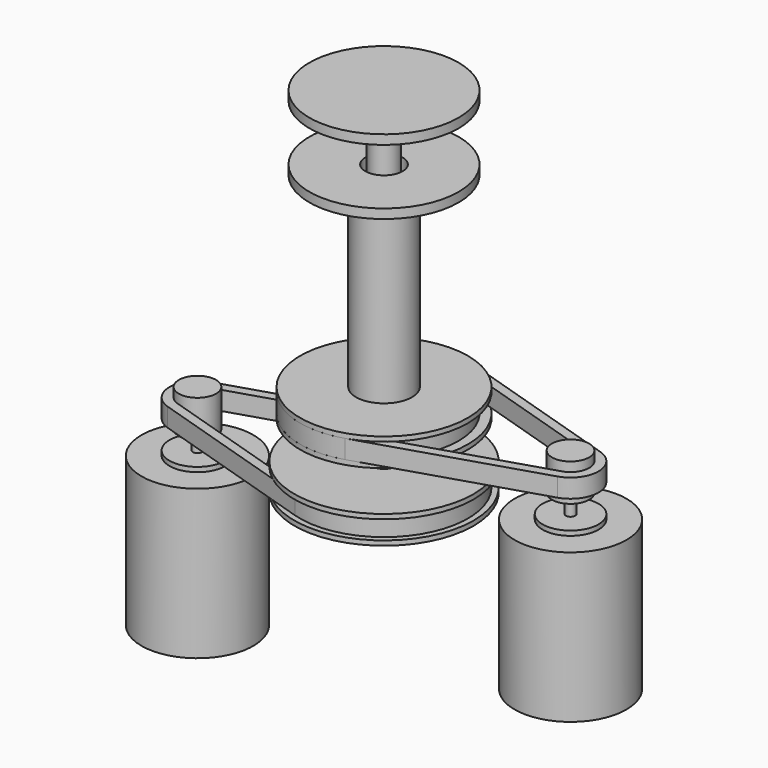
from build123d import *

# Parameters (mm, degrees)
F5_DEPTH = 6.35
F7_DEPTH = 6.35


with BuildPart() as f1:
    # F0 (on Front) → F1 (revolve)
    with BuildSketch(Plane.XZ):
        Polygon((25.4, 76.2), (6.35, 76.2), (6.35, 0), (28.575, 0), (28.575, 1.5875), (25.4, 1.5875), (25.4, 7.9375), (28.575, 7.9375), (28.575, 9.525), (9.525, 9.525), (9.525, 73.025), (25.4, 73.025), align=None)
    revolve(axis=Axis((0, 0, 38.1), (0, 0, 1)))


with BuildPart() as f3:
    # F2 (on Front) → F3 (revolve)
    with BuildSketch(Plane.XZ):
        Polygon((0, 98.425), (0, -22.225), (30.492194, -22.225), (30.492194, -20.6375), (25.4, -20.6375), (25.4, -14.2875), (30.492194, -14.2875), (30.492194, -12.7), (4.58843, -12.7), (4.58843, 95.25), (25.4, 95.25), (25.4, 98.425), align=None)
    revolve(axis=Axis((0, 0, 38.1), (0, 0, -1)))


with BuildPart() as f5:
    # F4 (on face) → F5 (new body)
    with BuildSketch(Plane.XY.offset(-20.6375)):
        with BuildLine():
            Line((-8.5725, 27.258813), (-66.3575, 9.086271))
            ThreePointArc((-66.3575, 9.086271), (-73.025, 0), (-66.3575, -9.086271))
            Line((-66.3575, -9.086271), (-8.5725, -27.258813))
            ThreePointArc((-8.5725, -27.258813), (28.575, 0), (-8.5725, 27.258813))
        make_face()
        with BuildLine():
            ThreePointArc((-7.62, 24.230056), (25.4, 0), (-7.62, -24.230056))
            Line((-7.62, -24.230056), (-65.405, -6.057514))
            ThreePointArc((-65.405, -6.057514), (-69.85, 0), (-65.405, 6.057514))
            Line((-65.405, 6.057514), (-7.62, 24.230056))
        make_face(mode=Mode.SUBTRACT)
    extrude(amount=F5_DEPTH)


with BuildPart() as f7:
    # F6 (on face) → F7 (new body)
    with BuildSketch(Plane.XY.offset(1.5875)):
        with BuildLine():
            Line((66.3575, 9.086271), (8.5725, 27.258813))
            ThreePointArc((8.5725, 27.258813), (-28.575, 0), (8.5725, -27.258813))
            Line((8.5725, -27.258813), (66.3575, -9.086271))
            ThreePointArc((66.3575, -9.086271), (73.025, 0), (66.3575, 9.086271))
        make_face()
        with BuildLine():
            ThreePointArc((65.405, 6.057514), (69.85, 0), (65.405, -6.057514))
            Line((65.405, -6.057514), (7.62, -24.230056))
            ThreePointArc((7.62, -24.230056), (-25.4, 0), (7.62, 24.230056))
            Line((7.62, 24.230056), (65.405, 6.057514))
        make_face(mode=Mode.SUBTRACT)
    extrude(amount=F7_DEPTH)


with BuildPart() as f9:
    # F8 (on Front) → F9 (revolve)
    with BuildSketch(Plane.XZ):
        Polygon((-63.5, -82.55), (-63.5, -11.1125), (-69.85, -11.1125), (-69.85, -23.8125), (-65.0875, -23.8125), (-65.0875, -30.1625), (-73.025, -30.1625), (-73.025, -31.75), (-82.55, -31.75), (-82.55, -82.55), align=None)
    revolve(axis=Axis((-63.5, 0, -20.6375), (0, 0, -1)))


with BuildPart() as f11:
    # F10 (on Front) → F11 (revolve)
    with BuildSketch(Plane.XZ):
        Polygon((69.85, 11.1125), (63.5, 11.1125), (63.5, -60.325), (82.55, -60.325), (82.55, -9.525), (73.025, -9.525), (73.025, -7.9375), (65.0875, -7.9375), (65.0875, -1.5875), (69.85, -1.5875), align=None)
    revolve(axis=Axis((63.5, 0, -5.2945), (0, 0, -1)))


solid = Compound([f1.part, f3.part, f5.part, f7.part, f9.part, f11.part])
